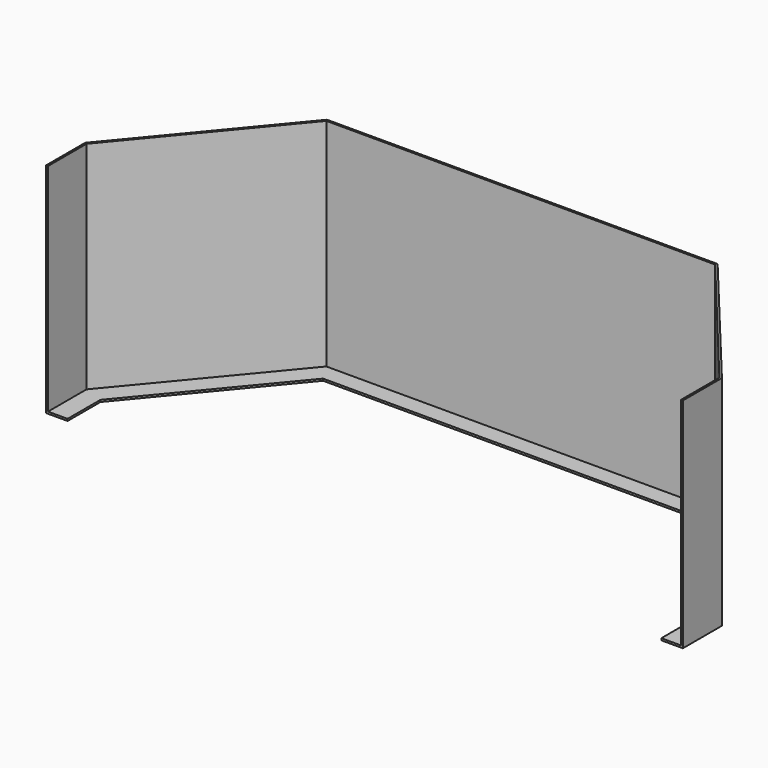
from build123d import *

# Parameters (mm, degrees)
F1_DEPTH = 335
F2_DEPTH = 3


with BuildPart() as f1:
    # F0 (on Top) → F1 (new body)
    with BuildSketch(Plane.XY):
        Polygon((0, 75), (0, 0), (3, 0), (3, 73.918249), (190.409872, 300), (787.590128, 300), (975, 73.918249), (975, 0), (978, 0), (978, 75), (789, 303), (189, 303), align=None)
    extrude(amount=F1_DEPTH)

    # F0 (on Top) → F2 (join)
    with BuildSketch(Plane.XY):
        Polygon((3, 73.918249), (3, 0), (33, 0), (33, 63.100741), (206.995438, 273), (771.004562, 273), (945, 63.100741), (945, 0), (973.79916, 0), (975, 0), (975, 73.918249), (787.590128, 300), (190.409872, 300), align=None)
    extrude(amount=F2_DEPTH)


solid = f1.part
